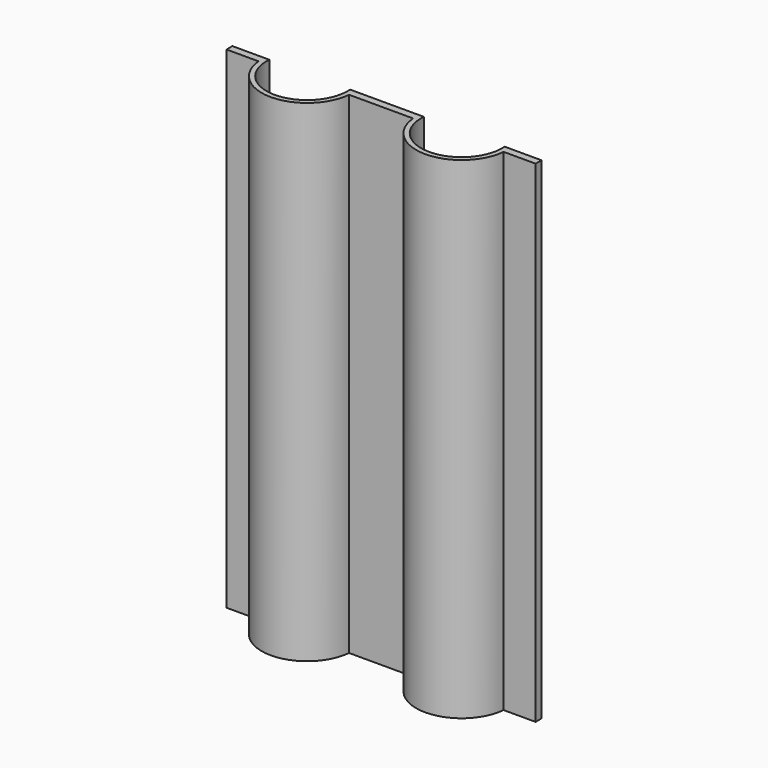
from build123d import *

# Parameters (mm, degrees)
F1_DEPTH      = 100
F1_DEPTH_BACK = 100


with BuildPart() as f1:
    # F0 (on Top) → F1 (new body, two sides)
    with BuildSketch(Plane.XY) as f1_sk:
        with BuildLine():
            ThreePointArc((-18.302896, 1.308424), (-34.750936, -16.5), (-51.198977, 1.308424))
            Line((-51.198977, 1.308424), (-53.204609, 1.308424))
            Line((-53.204609, 1.308424), (-66.198977, 1.308424))
            Line((-66.198977, 1.308424), (-66.198977, -1.691576))
            Line((-66.198977, -1.691576), (-53.173438, -1.691576))
            ThreePointArc((-53.173438, -1.691576), (-34.750936, -18.5), (-16.328435, -1.691576))
            Line((-16.328435, -1.691576), (9.722642, -1.691576))
            ThreePointArc((9.722642, -1.691576), (28.145144, -18.5), (46.567646, -1.691576))
            Line((46.567646, -1.691576), (59.593184, -1.691576))
            Line((59.593184, -1.691576), (59.593184, 1.308424))
            Line((59.593184, 1.308424), (46.598816, 1.308424))
            Line((46.598816, 1.308424), (44.593184, 1.308424))
            ThreePointArc((44.593184, 1.308424), (28.145144, -16.5), (11.697104, 1.308424))
            Line((11.697104, 1.308424), (9.691472, 1.308424))
            Line((9.691472, 1.308424), (-16.297264, 1.308424))
            Line((-16.297264, 1.308424), (-18.302896, 1.308424))
        make_face()
    extrude(amount=F1_DEPTH)
    extrude(f1_sk.sketch, amount=-F1_DEPTH_BACK)


solid = f1.part
